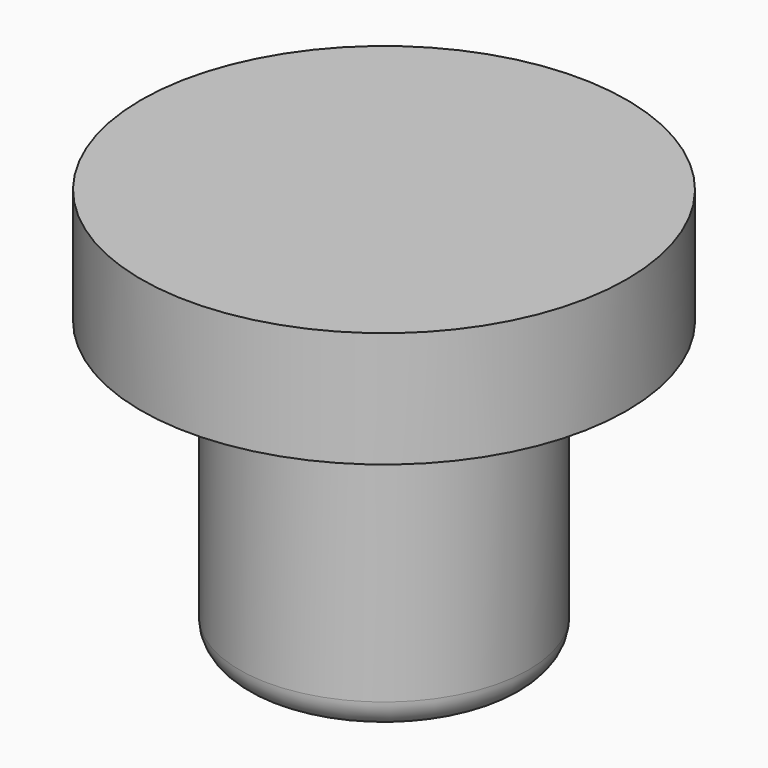
from build123d import *

# Parameters (mm, degrees)
SKETCH004_R  = 2.5
PAD004_DEPTH = 5
SKETCH005_R  = 4.2
PAD005_DEPTH = 2
FILLET_R     = 0.5


with BuildPart() as part:
    # Sketch004 → Pad004 (new body)
    with BuildSketch(Plane.XY.offset(2)):
        with Locations((39.321, 17.435)):
            Circle(SKETCH004_R)
    extrude(amount=-PAD004_DEPTH)

    # Sketch005 → Pad005 (join)
    with BuildSketch(Plane.XY.offset(2)):
        with Locations((39.321, 17.435)):
            Circle(SKETCH005_R)
    extrude(amount=PAD005_DEPTH)

    # Fillet
    fillet_edges = [part.edges().sort_by_distance(p)[0] for p in [
        (36.821, 17.435, -3),
    ]]
    fillet(fillet_edges, radius=FILLET_R)


solid = part.part
